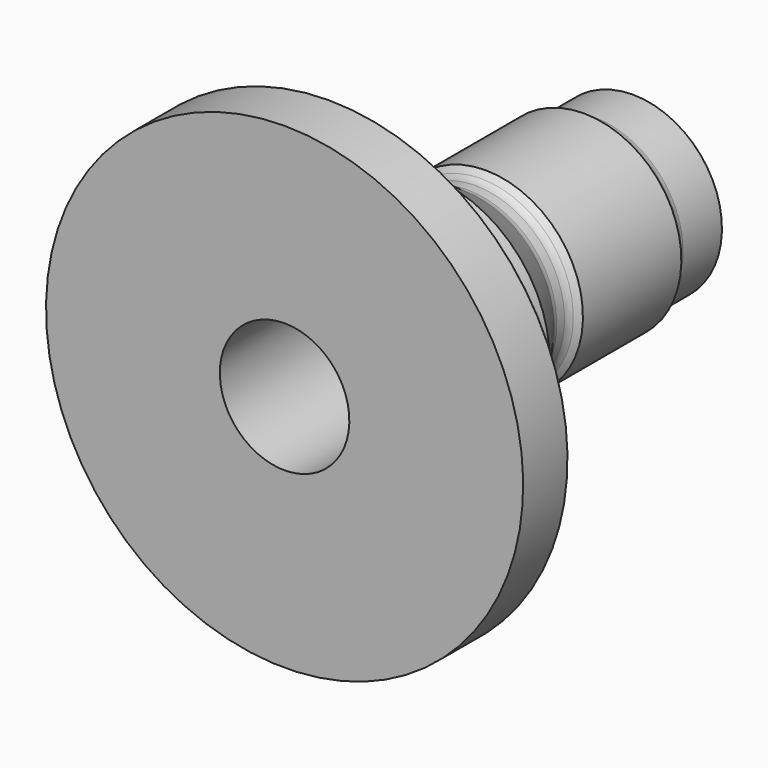
from build123d import *

# Parameters (mm, degrees)
F2_R    = 3
F3_R    = 3
F4_SIZE = 1
F5_SIZE = 0.5


with BuildPart() as f1:
    # F0 (on Right) → F1 (revolve)
    with BuildSketch(Plane.YZ):
        Polygon((0, 70), (0, 19), (105.75, 19), (110.25, 23.5), (128.25, 23.5), (128.25, 26.125), (112.25, 26.125), (109.8, 28.575), (73.7, 28.575), (71.25, 26.125), (66.25, 26.125), (52.25, 36), (17.25, 36), (17.25, 70), align=None)
    revolve(axis=Axis((0, 37.063913, 0), (0, 1, 0)))

    # F2
    f2_edges = [f1.edges().sort_by_distance(p)[0] for p in [
        (0, 17.25, -36),
        (0, 66.25, -26.125),
        (0, 71.25, -26.125),
        (0, 112.25, -26.125),
    ]]
    fillet(f2_edges, radius=F2_R)

    # F3
    f3_edges = [f1.edges().sort_by_distance(p)[0] for p in [
        (0, 110.25, -23.5),
    ]]
    fillet(f3_edges, radius=F3_R)

    # F4
    f4_edges = [f1.edges().sort_by_distance(p)[0] for p in [
        (0, 17.25, -70),
    ]]
    chamfer(f4_edges, length=F4_SIZE)

    # F5
    f5_edges = [f1.edges().sort_by_distance(p)[0] for p in [
        (0, 128.25, -26.125),
        (0, 128.25, -23.5),
    ]]
    chamfer(f5_edges, length=F5_SIZE)


solid = f1.part
